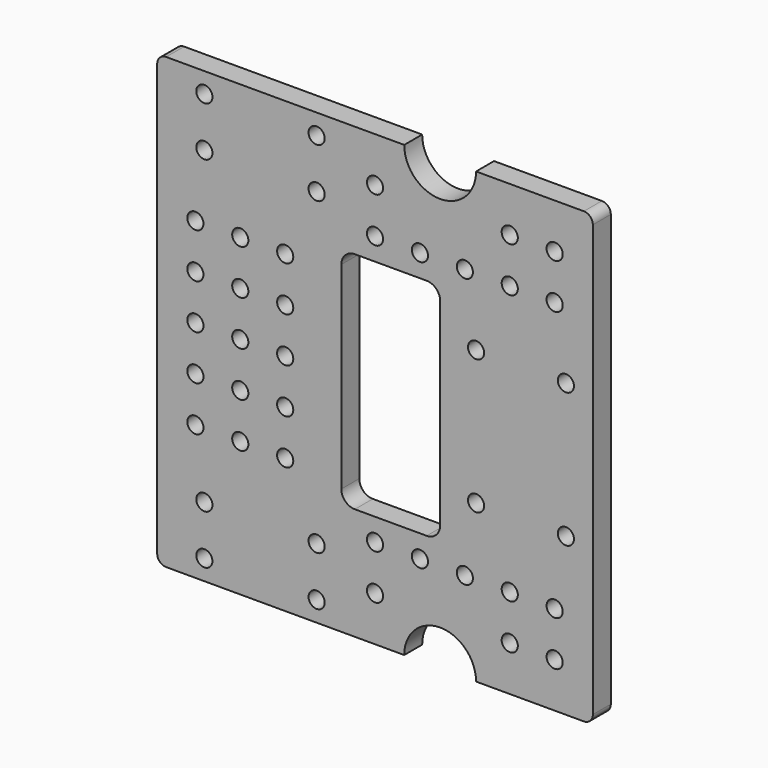
from build123d import *

# Parameters (mm, degrees)
CYLINDER038_R            = 1.8
CYLINDER038_DEPTH        = 100
ARRAY001_X_COUNT         = 2
ARRAY001_X_PITCH         = 25
ARRAY001_Y_COUNT         = 2
ARRAY001_Y_PITCH         = 11
ARRAY001_PLACEMENT_ANGLE = 90
ARRAY002_Z_COUNT         = 2
ARRAY002_Z_PITCH         = 80
CYLINDER011003_R         = 1.8
CYLINDER011003_DEPTH     = 10
ARRAY005_X_COUNT         = 2
ARRAY005_X_PITCH         = 30
ARRAY005_Y_COUNT         = 2
ARRAY005_Y_PITCH         = 20
ARRAY005_PITCH_ANGLE     = 90
ARRAY005_PLACEMENT_ANGLE = -90
BOX002_W                 = 22
BOX002_H                 = 10
BOX002_DEPTH             = 50
FILLET002_R              = 3
BOX003_W                 = 16
BOX003_H                 = 200
BOX003_DEPTH             = 50
CYLINDER_R               = 8
CYLINDER_DEPTH           = 200
SKETCH_W                 = 42.117567
SKETCH_H                 = 23.738708
SKETCH_W_2               = 40.471139
SKETCH_H_2               = 27.047569
SKETCH_W_3               = 29.381024
SKETCH_H_3               = 46.19655
SKETCH_W_4               = 20.234924
SKETCH_H_4               = 18.049118
SKETCH_W_5               = 22.001269
SKETCH_H_5               = 17.778789
SKETCH_W_6               = 9.111635
SKETCH_H_6               = 47.113838
EXTRUDE_DEPTH            = 50
CYLINDER011002_R         = 1.8
CYLINDER011002_DEPTH     = 100
ARRAY004_X_COUNT         = 9
ARRAY004_X_PITCH         = 10
ARRAY004_Z_COUNT         = 9
ARRAY004_Z_PITCH         = 10
BOX_W                    = 97
BOX_H                    = 5
BOX_DEPTH                = 100
FILLET_R                 = 2


with BuildPart() as bolt_hole_array_pair:
    # Cylinder038 → Cylinder038 (new body)
    with BuildSketch(Plane.XY.offset(-50)):
        Circle(CYLINDER038_R)
    extrude(amount=CYLINDER038_DEPTH)

    # Array001 X: bolt hole array pair ×2


with BuildPart() as bolt_hole_array_pair_1:
    add(bolt_hole_array_pair.part)
    with Locations(*[(i * ARRAY001_X_PITCH, 0, 0) for i in range(1, ARRAY001_X_COUNT)]):
        add(bolt_hole_array_pair.part)

    # Array001 Y: bolt hole array pair ×2


with BuildPart() as bolt_hole_array_pair_2:
    add(bolt_hole_array_pair_1.part)
    with Locations(*[(0, i * ARRAY001_Y_PITCH, 0) for i in range(1, ARRAY001_Y_COUNT)]):
        add(bolt_hole_array_pair_1.part)


with BuildPart() as bolt_hole_array_pair_3:
    # Array001 placement: moved
    add(bolt_hole_array_pair_2.part.moved(Location((-12.5, 0, 4.5))).rotate(Axis((-12.5, 0, 4.5), (1, 0, 0)), ARRAY001_PLACEMENT_ANGLE))

    # Array002 Z: bolt hole array pair ×2


with BuildPart() as bolt_hole_array_pair_4:
    add(bolt_hole_array_pair_3.part)
    with Locations(*[(0, 0, i * ARRAY002_Z_PITCH) for i in range(1, ARRAY002_Z_COUNT)]):
        add(bolt_hole_array_pair_3.part)


with BuildPart() as stepper_mount_hole_array:
    # Cylinder011003 → Cylinder011003 (new body)
    with BuildSketch(Plane.XY):
        Circle(CYLINDER011003_R)
    extrude(amount=CYLINDER011003_DEPTH)

    # Array005 X: stepper mount hole array ×2


with BuildPart() as stepper_mount_hole_array_1:
    add(stepper_mount_hole_array.part)
    with Locations(*[(i * ARRAY005_X_PITCH, 0, 0) for i in range(1, ARRAY005_X_COUNT)]):
        add(stepper_mount_hole_array.part)

    # Array005 Y: stepper mount hole array ×2


with BuildPart() as stepper_mount_hole_array_2:
    add(stepper_mount_hole_array_1.part)
    with Locations(*[(0, i * ARRAY005_Y_PITCH, 0) for i in range(1, ARRAY005_Y_COUNT)]):
        add(stepper_mount_hole_array_1.part)


with BuildPart() as stepper_mount_hole_array_3:
    # Array005 pitch: moved
    add(stepper_mount_hole_array_2.part.rotate(Axis((0, 0, 0), (0, 1, 0)), ARRAY005_PITCH_ANGLE))


with BuildPart() as stepper_mount_hole_array_4:
    # Array005 placement: moved
    add(stepper_mount_hole_array_3.part.moved(Location((48, -31, 65))).rotate(Axis((48, -31, 65), (0, 0, 1)), ARRAY005_PLACEMENT_ANGLE))


with BuildPart() as belt_hole_fillet:
    # Box002 → Box002 (new body)
    with BuildSketch(Plane(origin=(18, -40, 25), x_dir=(1, 0, 0), z_dir=(0, 0, 1))):
        with Locations((11, 5)):
            Rectangle(BOX002_W, BOX002_H)
    extrude(amount=BOX002_DEPTH)

    # Fillet002
    fillet002_edges = [belt_hole_fillet.edges().sort_by_distance(p)[0] for p in [
        (18, -35, 75),
        (18, -35, 25),
        (40, -35, 75),
        (40, -35, 25),
    ]]
    fillet(fillet002_edges, radius=FILLET002_R)


with BuildPart() as shaft_extension_cube:
    # Box003 → Box003 (new body)
    with BuildSketch(Plane(origin=(-8, -200, -50), x_dir=(1, 0, 0), z_dir=(0, 0, 1))):
        with Locations((8, 100)):
            Rectangle(BOX003_W, BOX003_H)
    extrude(amount=BOX003_DEPTH)


with BuildPart() as shaft_16mm_hole:
    # Cylinder → Cylinder (new body)
    with BuildSketch(Plane.XZ):
        Circle(CYLINDER_R)
    extrude(amount=CYLINDER_DEPTH)

    # Fusion002: union shaft extension cube
    add(shaft_extension_cube.part)


with BuildPart() as shaft_16mm_hole_1:
    # Fusion002 placement: moved
    add(shaft_16mm_hole.part.moved(Location((40, -19, 0))))


with BuildPart() as part_mirroring:
    # Part__Mirroring: instance of shaft 16mm hole
    add(shaft_16mm_hole_1.part.mirror(Plane(origin=(0, 0, 50), x_dir=(0, 1, 0), z_dir=(0, 0, 1))))


with BuildPart() as general_holes_extrude:
    # Sketch → Extrude (new body, symmetric)
    with BuildSketch(Plane.XZ):
        with Locations((-1.795196, 11.674214)):
            Rectangle(SKETCH_W, SKETCH_H)
        with Locations((-0.985158, 89.151065)):
            Rectangle(SKETCH_W_2, SKETCH_H_2)
        with Locations((57.017252, 49.302802)):
            Rectangle(SKETCH_W_3, SKETCH_H_3)
        with Locations((41.531349, 93.530205)):
            Rectangle(SKETCH_W_4, SKETCH_H_4)
        with Locations((39.547934, 5.882593)):
            Rectangle(SKETCH_W_5, SKETCH_H_5)
        with Locations((15.74623, 50.03809)):
            Rectangle(SKETCH_W_6, SKETCH_H_6)
    extrude(amount=EXTRUDE_DEPTH, both=True)


with BuildPart() as hole_fusion:
    # Cylinder011002 → Cylinder011002 (new body)
    with BuildSketch(Plane.XZ.offset(-50)):
        Circle(CYLINDER011002_R)
    extrude(amount=CYLINDER011002_DEPTH)

    # Array004 X: hole fusion ×9


with BuildPart() as hole_fusion_1:
    add(hole_fusion.part)
    with Locations(*[(i * ARRAY004_X_PITCH, 0, 0) for i in range(1, ARRAY004_X_COUNT)]):
        add(hole_fusion.part)

    # Array004 Z: hole fusion ×9


with BuildPart() as hole_fusion_2:
    add(hole_fusion_1.part)
    with Locations(*[(0, 0, i * ARRAY004_Z_PITCH) for i in range(1, ARRAY004_Z_COUNT)]):
        add(hole_fusion_1.part)


with BuildPart() as hole_fusion_3:
    # Array004 placement: moved
    add(hole_fusion_2.part.moved(Location((-14.5, 0, 10))))

    # Cut: cut general holes extrude
    add(general_holes_extrude.part, mode=Mode.SUBTRACT)

    # Fusion: union bolt hole array pair, stepper mount hole array, belt hole fillet, Part__Mirroring, shaft 16mm hole
    add(bolt_hole_array_pair_4.part)
    add(stepper_mount_hole_array_4.part)
    add(belt_hole_fillet.part)
    add(part_mirroring.part)
    add(shaft_16mm_hole_1.part)


with BuildPart() as side_plate_cut:
    # Box → Box (new body)
    with BuildSketch(Plane(origin=(-23, -36, 0), x_dir=(1, 0, 0), z_dir=(0, 0, 1))):
        with Locations((48.5, 2.5)):
            Rectangle(BOX_W, BOX_H)
    extrude(amount=BOX_DEPTH)

    # Fillet
    fillet_edges = [side_plate_cut.edges().sort_by_distance(p)[0] for p in [
        (-23, -33.5, 100),
        (-23, -33.5, 0),
        (74, -33.5, 100),
        (74, -33.5, 0),
    ]]
    fillet(fillet_edges, radius=FILLET_R)

    # Cut023015009002: cut hole fusion
    add(hole_fusion_3.part, mode=Mode.SUBTRACT)


solid = side_plate_cut.part
